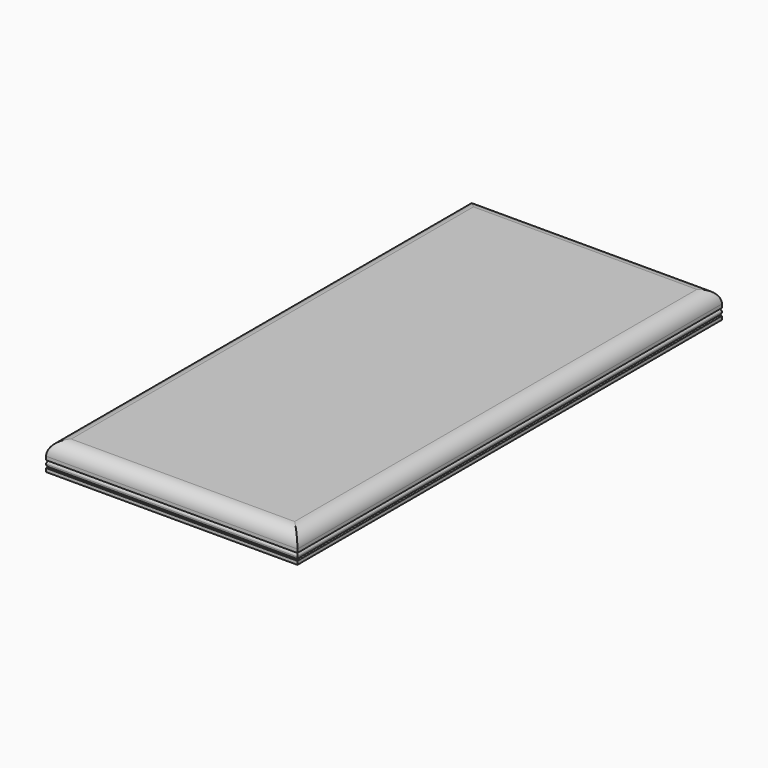
from build123d import *

# Parameters (mm, degrees)
F0_W     = 114.3
F0_H     = 241.3
F1_DEPTH = 6.35
F2_R     = 6.35


with BuildPart() as f1:
    # F0 (on Top) → F1 (new body, symmetric)
    with BuildSketch(Plane.XY):
        Rectangle(F0_W, F0_H)
    extrude(amount=F1_DEPTH, both=True)

    # F2
    f2_edges = [f1.edges().sort_by_distance(p)[0] for p in [
        (0, 120.65, 6.35),
        (-57.15, 0, 6.35),
        (0, -120.65, 6.35),
        (57.15, 0, 6.35),
    ]]
    fillet(f2_edges, radius=F2_R)

    # F4: sweep along a path in F4_path
    with BuildLine(Plane(origin=(57.15, -120.65, -6.35), x_dir=(0, -1, 0), z_dir=(0, 0, -1))) as f4_path:
        Line((0, 0), (-241.3, 0))
        Line((-241.3, 0), (-241.3, 114.3))
        Line((-241.3, 114.3), (0, 114.3))
        Line((0, 114.3), (0, 0))
    # F3 (on face) → F4 (sweep, cut)
    with BuildSketch(Plane.XZ.offset(120.65)):
        with BuildLine():
            ThreePointArc((55.5625, -1.5875), (56.6850320151, -2.0524679849), (57.15, -3.175))
            Line((57.15, -3.175), (57.15, -1.5875))
            Line((57.15, -1.5875), (55.5625, -1.5875))
        make_face()
        with BuildLine():
            ThreePointArc((57.15, -3.175), (56.6850320151, -4.2975320151), (55.5625, -4.7625))
            Line((55.5625, -4.7625), (57.15, -4.7625))
            Line((57.15, -4.7625), (57.15, -3.175))
        make_face()
    sweep(path=f4_path.line, transition=Transition.RIGHT, mode=Mode.SUBTRACT)


solid = f1.part
